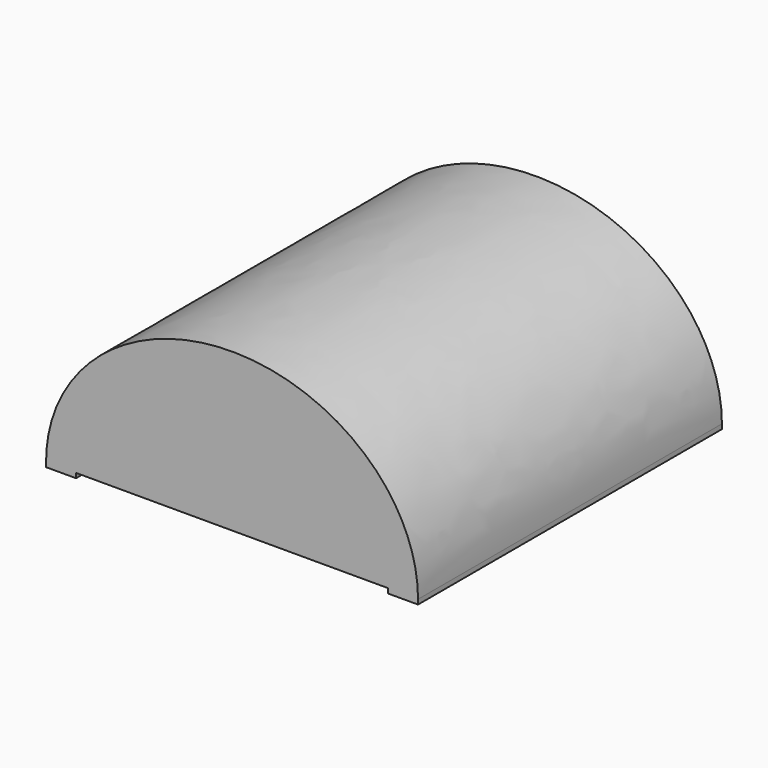
from build123d import *

# Parameters (mm, degrees)
F1_DEPTH = 61.214
F2_W     = 4.826
F2_H     = 61.214
F3_DEPTH = 0.762
F4_R     = 9.652
F5_DEPTH = 12.7


with BuildPart() as f1:
    # F0 (on Front) → F1 (new body)
    with BuildSketch(Plane.XZ):
        with BuildLine():
            add(Edge.make_bspline(
                [(35.902390209, -16.5929342094), (35.902390209, 8.8070657906), (5.930390209, 8.8070657906), (-24.041609791, 8.8070657906), (-24.041609791, -16.5929342094)],
                knots=[3.1415926536, 3.1415926536, 3.1415926536, 4.7123889804, 4.7123889804, 6.2831853072, 6.2831853072, 6.2831853072], degree=2, weights=[1, 0.7071067812, 1, 0.7071067812, 1]))
            Line((-24.041609791, -16.5929342094), (35.902390209, -16.5929342094))
        make_face()
    extrude(amount=F1_DEPTH)

    # F2 (on face) → F3 (join)
    with BuildSketch(Plane(origin=(0, 0, -16.5929342094), x_dir=(1, 0, 0), z_dir=(0, 0, -1))):
        with Locations((-21.628609791, 30.607)):
            Rectangle(F2_W, F2_H)
        with Locations((33.489390209, 30.607)):
            Rectangle(F2_W, F2_H)
    extrude(amount=F3_DEPTH)

    # F4 (on face) → F5 (cut)
    with BuildSketch(Plane(origin=(0, 0, -16.5929342094), x_dir=(1, 0, 0), z_dir=(0, 0, -1))):
        with Locations((5.930390209, 30.607)):
            Circle(F4_R)
    extrude(amount=-F5_DEPTH, mode=Mode.SUBTRACT)


solid = f1.part
